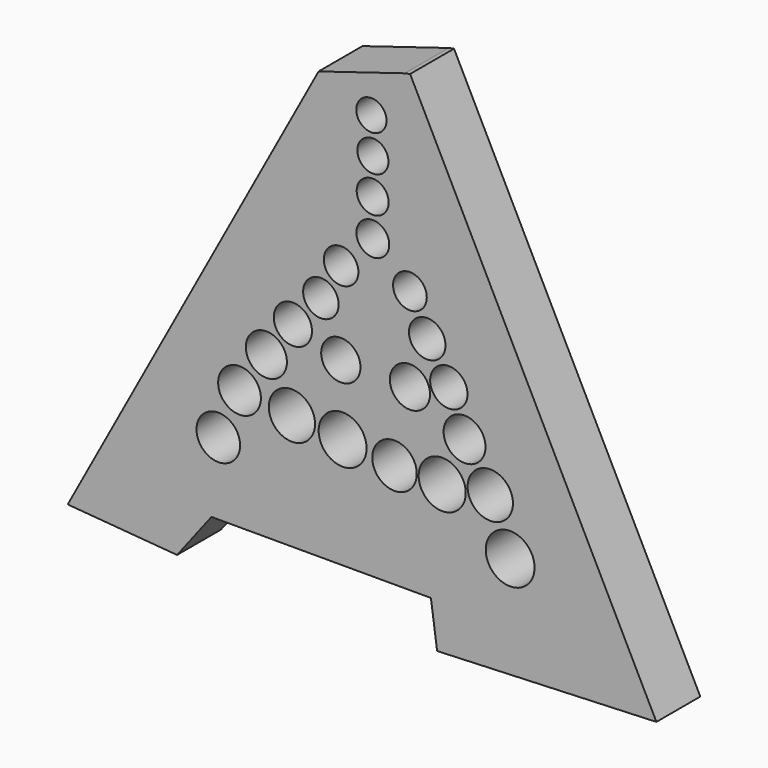
from build123d import *

# Parameters (mm, degrees)
F2_DEPTH = 25.4
F0_R     = 7
F0_R_2   = 7.2
F0_R_3   = 7.4
F0_R_4   = 7.6
F0_R_5   = 8
F0_R_6   = 7.8
F0_R_7   = 8.225
F0_R_8   = 8.45
F0_R_9   = 8.85
F0_R_10  = 8.65
F0_R_11  = 9.1
F0_R_12  = 9.3
F0_R_13  = 9.5
F0_R_14  = 9.7
F0_R_15  = 9.9
F0_R_16  = 10.5
F0_R_17  = 10.1
F0_R_18  = 10.3
F0_R_19  = 10.7
F0_R_20  = 11.1
F0_R_21  = 10.9
F0_R_22  = 11.3
F3_DEPTH = 25.401


with BuildPart() as f2:
    # F1 (on Front) → F2 (new body)
    with BuildSketch(Plane.XZ):
        Polygon((-2.387828, 156.211135), (-42.294534, 144.003296), (-158.432072, -70.241292), (-107.798927, -74.355238), (-91.889676, -53.673212), (9.710324, -53.673212), (12.581083, -74.355238), (114.097759, -70.241292), (0.081456, 156.730694), align=None)
    extrude(amount=F2_DEPTH)

    # F0 (on Front) → F3 (cut, through all)
    with BuildSketch(Plane.XZ):
        with Locations((-17.841436, 134.118904)):
            Circle(F0_R)
        with Locations((-17.143414, 117.718217)):
            Circle(F0_R_2)
        with Locations((-17.252461, 101.107389)):
            Circle(F0_R_3)
        with Locations((-17.176818, 84.013221)):
            Circle(F0_R_4)
        with Locations((-31.861237, 68.178406)):
            Circle(F0_R_5)
        with Locations((0, 68.178406)):
            Circle(F0_R_6)
        with Locations((-41.226347, 51.9749)):
            Circle(F0_R_7)
        with Locations((8.003645, 51.42574)):
            Circle(F0_R_8)
        with Locations((-54.17803, 37.103842)):
            Circle(F0_R_9)
        with Locations((17.996476, 34.879375)):
            Circle(F0_R_10)
        with Locations((-31.985706, 29.700621)):
            Circle(F0_R_11)
        with Locations((0, 29.17809)):
            Circle(F0_R_12)
        with Locations((-66.461428, 20.727529)):
            Circle(F0_R_13)
        with Locations((25.287512, 16.072325)):
            Circle(F0_R_14)
        with Locations((-78.888632, 2.095457)):
            Circle(F0_R_15)
        with Locations((37.182092, -2.806898)):
            Circle(F0_R_16)
        with Locations((-88.714097, -20.226816)):
            Circle(F0_R_17)
        with Locations((-7.144929, -5.242327)):
            Circle(F0_R_18)
        with Locations((-54.634879, -0.236333)):
            Circle(F0_R_19)
        with Locations((-31.156641, -2.392184)):
            Circle(F0_R_20)
        with Locations((14.935412, -5.686219)):
            Circle(F0_R_21)
        with Locations((46.391799, -25.725081)):
            Circle(F0_R_22)
    extrude(amount=F3_DEPTH, mode=Mode.SUBTRACT)


solid = f2.part
